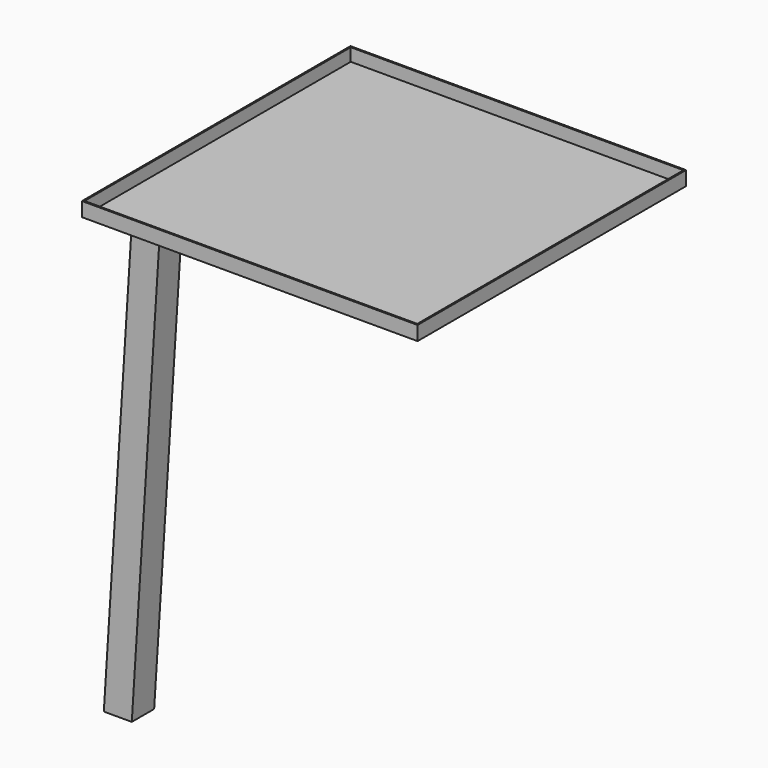
from build123d import *

# Parameters (mm, degrees)
F1_DEPTH = 600
F2_T     = -2.54
F3_W     = 50
F3_H     = 50
F5_W     = 50
F5_H     = 50


with BuildPart() as f1:
    # F0 (on Front) → F1 (new body)
    with BuildSketch(Plane.XZ):
        Polygon((300, 25.4), (-300, 25.4), (-300, 0), (-250, 0), (250, 0), (300, 0), align=None)
    extrude(amount=F1_DEPTH)

    # F2
    f2_openings = [f1.faces().sort_by_distance(p)[0] for p in [
        (0, -300, 25.4),
    ]]
    offset(amount=F2_T, openings=f2_openings)

    # F3 (on face) → F6 section 0
    with BuildSketch(Plane(origin=(0, 0, 0), x_dir=(1, 0, 0), z_dir=(0, 0, -1))):
        with Locations((-225, 525)):
            Rectangle(F3_W, F3_H)
    # F5 (on offset) → F6 section 1
    with BuildSketch(Plane.XY.offset(-800)):
        with Locations((-277.383376, -523.17366)):
            Rectangle(F5_W, F5_H)
    loft()


solid = f1.part
